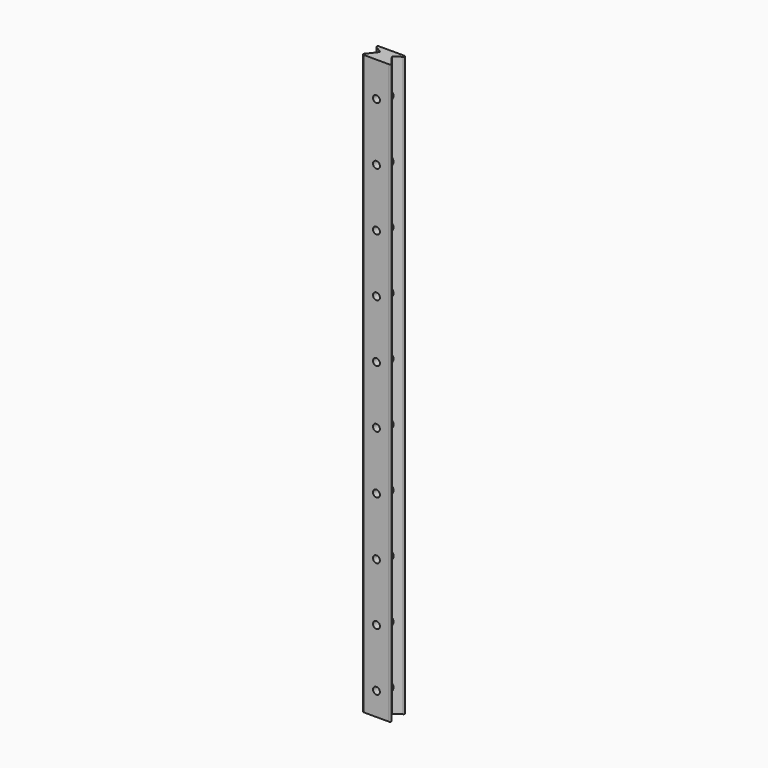
from build123d import *

# Parameters (mm, degrees)
PAD_DEPTH       = 250
SKETCH001_R     = 1.5
POCKET_DEPTH    = 8.15296
SKETCH002_R     = 3
POCKET001_DEPTH = 5


with BuildPart() as part:
    # Sketch → Pad (new body)
    with BuildSketch(Plane.XY):
        with BuildLine():
            Line((-5.5, 0), (5.5, 0))
            ThreePointArc((5.5, 0), (5.949397, 0.280814), (5.894005, 0.807831))
            Line((2.5, 5.15196), (5.894005, 0.807831))
            Line((5.768277, 7.230027), (2.5, 5.15196))
            ThreePointArc((5.768277, 7.230027), (5.980087, 7.791662), (5.5, 8.15196))
            Line((5.5, 8.15196), (-5.5, 8.15196))
            ThreePointArc((-5.5, 8.15196), (-5.980087, 7.791662), (-5.768277, 7.230027))
            Line((-5.768277, 7.230027), (-2.5, 5.15196))
            Line((-2.5, 5.15196), (-5.894005, 0.807831))
            ThreePointArc((-5.894005, 0.807831), (-5.949397, 0.280814), (-5.5, 0))
        make_face()
    extrude(amount=PAD_DEPTH)

    # Sketch001 (on Face2 of Pad) → Pocket (cut, through all)
    with BuildSketch(Plane(origin=(0, 8.15196, 0), x_dir=(-1, 0, 0), z_dir=(0, 1, 0))):
        with Locations((0, 10)):
            Circle(SKETCH001_R)
        with Locations((0, 35)):
            Circle(SKETCH001_R)
        with Locations((0, 60)):
            Circle(SKETCH001_R)
        with Locations((0, 85)):
            Circle(SKETCH001_R)
        with Locations((0, 110)):
            Circle(SKETCH001_R)
        with Locations((0, 135)):
            Circle(SKETCH001_R)
        with Locations((0, 160)):
            Circle(SKETCH001_R)
        with Locations((0, 185)):
            Circle(SKETCH001_R)
        with Locations((0, 210)):
            Circle(SKETCH001_R)
        with Locations((0, 235)):
            Circle(SKETCH001_R)
    extrude(amount=-POCKET_DEPTH, mode=Mode.SUBTRACT)

    # Sketch002 (on Face3 of Pocket) → Pocket001 (cut)
    with BuildSketch(Plane(origin=(0, 8.15196, 0), x_dir=(-1, 0, 0), z_dir=(0, 1, 0))):
        with Locations((0, 235)):
            Circle(SKETCH002_R)
        with Locations((0, 210)):
            Circle(SKETCH002_R)
        with Locations((0, 185)):
            Circle(SKETCH002_R)
        with Locations((0, 160)):
            Circle(SKETCH002_R)
        with Locations((0, 135)):
            Circle(SKETCH002_R)
        with Locations((0, 110)):
            Circle(SKETCH002_R)
        with Locations((0, 85)):
            Circle(SKETCH002_R)
        with Locations((0, 60)):
            Circle(SKETCH002_R)
        with Locations((0, 35)):
            Circle(SKETCH002_R)
        with Locations((0, 10)):
            Circle(SKETCH002_R)
    extrude(amount=-POCKET001_DEPTH, mode=Mode.SUBTRACT)


solid = part.part
